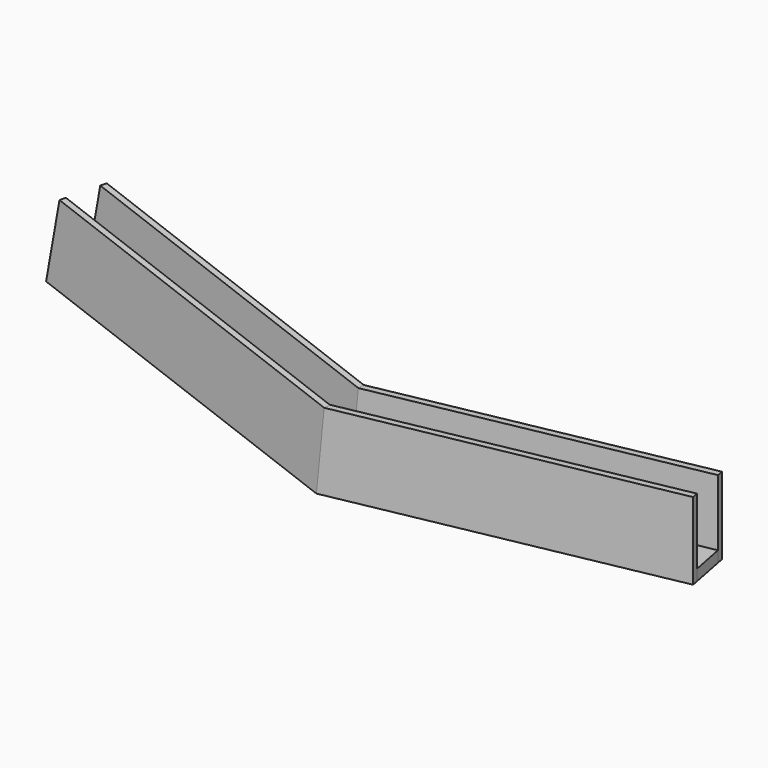
from build123d import *

# Parameters (mm, degrees)
F1_DEPTH = 1
F2_DEPTH = 6
F5_DEPTH = 25
F8_DEPTH = 19.4554531584


with BuildPart() as f1:
    # F0 (on Top) → F1 (new body)
    with BuildSketch(Plane.XY):
        Polygon((-29.4488155034, 5.7242698613), (0, 0), (29.4488155034, 5.7242698613), (28.8382267182, 8.8654768483), (0, 3.2598934239), (-28.8382267182, 8.8654768483), align=None)
        Polygon((29.4488155034, 5.7242698613), (0, 0), (-29.4488155034, 5.7242698613), (-29.5633009007, 5.1352935512), (0, -0.611230017), (29.5633009007, 5.1352935512), align=None)
        Polygon((0, 3.2598934239), (28.8382267182, 8.8654768483), (28.723741321, 9.4544531584), (0, 3.8711234408), (-28.723741321, 9.4544531584), (-28.8382267182, 8.8654768483), align=None)
    extrude(amount=-F1_DEPTH)

    # F0 (on Top) → F2 (join)
    with BuildSketch(Plane.XY):
        Polygon((0, 3.2598934239), (28.8382267182, 8.8654768483), (28.723741321, 9.4544531584), (0, 3.8711234408), (-28.723741321, 9.4544531584), (-28.8382267182, 8.8654768483), align=None)
        Polygon((29.4488155034, 5.7242698613), (0, 0), (-29.4488155034, 5.7242698613), (-29.5633009007, 5.1352935512), (0, -0.611230017), (29.5633009007, 5.1352935512), align=None)
    extrude(amount=F2_DEPTH)

    # F4 (on face) → F5 (cut)
    with BuildSketch(Plane(origin=(0.7250741824, 3.7301832971, 0), x_dir=(-0.9816271834, 0.1908089954, 0), z_dir=(0.1908089954, 0.9816271834, 0))):
        Polygon((30, 2), (30, 6), (8.7386451747, 6), align=None)
    extrude(amount=-F5_DEPTH, mode=Mode.SUBTRACT)

    # F7 (on offset) → F8 (cut, through all)
    with BuildSketch(Plane.XZ.offset(10)):
        Polygon((-30.2472151816, -2.2539433558), (0, -2.2539433558), (0, -1), (0, 10.581173934), (-30.2472151816, 10.581173934), align=None)
        Polygon((0, 10.581173934), (0, -1), (1.0596845285, 11.1122495846), align=None)
    extrude(amount=-F8_DEPTH, mode=Mode.SUBTRACT)

    # F10: F1 across plane


with BuildPart() as f1_1:
    add(f1.part)
    add(f1.part.mirror(Plane(origin=(0.2338059111, 1.6753939772, 1.6724137931), x_dir=(0, -1, 0), z_dir=(-0.9961946981, 0, 0.0871557427))))


solid = f1_1.part
